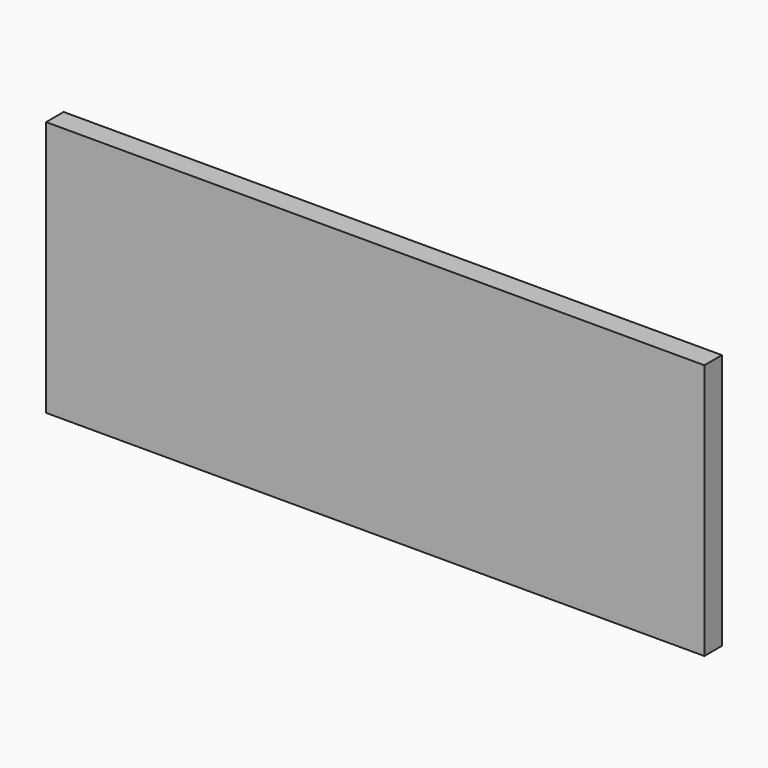
from build123d import *

# Parameters (mm, degrees)
F0_W     = 76
F0_H     = 26
F1_DEPTH = 5
F2_W     = 90
F2_H     = 35
F3_DEPTH = 3
F4_R     = 5


with BuildPart() as f1:
    # F0 (on Front) → F1 (new body)
    with BuildSketch(Plane.XZ):
        Rectangle(F0_W, F0_H)
    extrude(amount=F1_DEPTH)

    # F2 (on face) → F3 (join)
    with BuildSketch(Plane.XZ.offset(5)):
        Rectangle(F2_W, F2_H)
    extrude(amount=F3_DEPTH)

    # F4
    f4_edges = [f1.edges().sort_by_distance(p)[0] for p in [
        (-38, -2.5, 13),
        (38, -2.5, 13),
        (38, -2.5, -13),
        (-38, -2.5, -13),
    ]]
    fillet(f4_edges, radius=F4_R)


solid = f1.part
